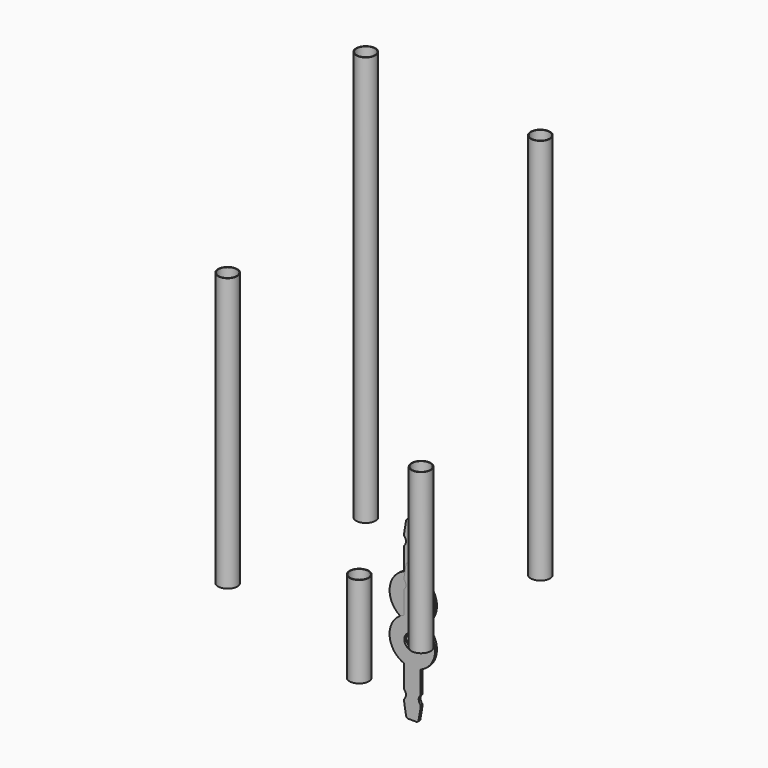
from build123d import *

# Parameters (mm, degrees)
F0_R      = 3.5
F1_DEPTH  = 1
F2_R      = 4.25
F2_R_2    = 4
F3_DEPTH  = 120
F4_R      = 4.25
F4_R_2    = 4
F5_DEPTH  = 180
F6_R      = 4.25
F6_R_2    = 4
F7_DEPTH  = 170
F8_R      = 4.25
F8_R_2    = 4
F9_DEPTH  = 70
F10_R     = 4.25
F10_R_2   = 4
F11_DEPTH = 40
F12_R     = 3.5
F13_DEPTH = 1


with BuildPart() as f1:
    # F0 (on Front) → F1 (new body)
    with BuildSketch(Plane.XZ):
        with BuildLine():
            ThreePointArc((-1.691495, 28.806018), (-2.358822, 28.582301), (-2.756461, 28.001562))
            Line((-2.756461, 28.001562), (-3.583157, 22.901481))
            Line((-3.583157, 22.901481), (-3.583157, 21.667795))
            ThreePointArc((-3.583157, 21.667795), (-2.800422, 19.813258), (-3.600286, 17.966043))
            Line((-3.600286, 17.966043), (-3.600286, 11.83005))
            Line((-3.600286, 11.83005), (3.599391, 11.83005))
            Line((3.599391, 11.83005), (3.599391, 17.969944))
            ThreePointArc((3.599391, 17.969944), (2.802389, 19.803012), (3.601747, 21.635054))
            Line((3.601747, 21.635054), (3.601747, 22.901675))
            Line((3.601747, 22.901675), (2.729514, 27.967552))
            ThreePointArc((2.729514, 27.967552), (2.399436, 28.567432), (1.757654, 28.806018))
            Line((1.757654, 28.806018), (-1.691495, 28.806018))
        make_face()
        with BuildLine():
            Line((3.599391, 11.83005), (-3.600286, 11.83005))
            Line((-3.600286, 11.83005), (-3.600286, 7.97005))
            ThreePointArc((-3.600286, 7.97005), (-0.000448, 8.640464), (3.599391, 7.97005))
            Line((3.599391, 7.97005), (3.599391, 11.83005))
        make_face()
        with BuildLine():
            ThreePointArc((3.599391, 7.97005), (-0.000448, 8.640464), (-3.600286, 7.97005))
            Line((-3.600286, 7.97005), (3.599391, 7.97005))
        make_face()
        with BuildLine():
            Line((3.599391, 7.97005), (-3.600286, 7.97005))
            ThreePointArc((-3.600286, 7.97005), (-5.657373, -9.605698), (9.999552, -1.359536))
            ThreePointArc((9.999552, -1.359536), (8.245715, 4.29739), (3.599391, 7.97005))
        make_face()
        with Locations((-0.000448, -1.359536)):
            Circle(F0_R, mode=Mode.SUBTRACT)
    extrude(amount=F1_DEPTH)


with BuildPart() as f3:
    # F2 (on Top) → F3 (new body)
    with BuildSketch(Plane.XY):
        with Locations((-55.070568, -33.56855)):
            Circle(F2_R)
        with Locations((-55.070568, -33.56855)):
            Circle(F2_R_2, mode=Mode.SUBTRACT)
    extrude(amount=F3_DEPTH)


with BuildPart() as f5:
    # F4 (on Top) → F5 (new body)
    with BuildSketch(Plane.XY):
        with Locations((-48.538309, 34.112904)):
            Circle(F4_R)
        with Locations((-48.538309, 34.112904)):
            Circle(F4_R_2, mode=Mode.SUBTRACT)
    extrude(amount=F5_DEPTH)


with BuildPart() as f7:
    # F6 (on Top) → F7 (new body)
    with BuildSketch(Plane.XY):
        with Locations((24.949595, 38.10484)):
            Circle(F6_R)
        with Locations((24.949595, 38.10484)):
            Circle(F6_R_2, mode=Mode.SUBTRACT)
    extrude(amount=F7_DEPTH)


with BuildPart() as f9:
    # F8 (on Top) → F9 (new body)
    with BuildSketch(Plane.XY):
        with Locations((26.713643, -29.582191)):
            Circle(F8_R)
        with Locations((26.713643, -29.582191)):
            Circle(F8_R_2, mode=Mode.SUBTRACT)
    extrude(amount=F9_DEPTH)


with BuildPart() as f11:
    # F10 (on Top) → F11 (new body)
    with BuildSketch(Plane.XY):
        with Locations((24.170965, -60.403489)):
            Circle(F10_R)
        with Locations((24.170965, -60.403489)):
            Circle(F10_R_2, mode=Mode.SUBTRACT)
    extrude(amount=F11_DEPTH)


with BuildPart() as f13:
    # F12 (on Front) → F13 (new body)
    with BuildSketch(Plane.XZ):
        with BuildLine():
            ThreePointArc((-1.696306, 11.890147), (-2.363633, 11.66643), (-2.761272, 11.085691))
            Line((-2.761272, 11.085691), (-3.587968, 5.98561))
            Line((-3.587968, 5.98561), (-3.587968, 4.751925))
            ThreePointArc((-3.587968, 4.751925), (-2.805233, 2.897387), (-3.605097, 1.050173))
            Line((-3.605097, 1.050173), (-3.605097, -5.085821))
            Line((-3.605097, -5.085821), (3.59458, -5.085821))
            Line((3.59458, -5.085821), (3.59458, 1.054073))
            ThreePointArc((3.59458, 1.054073), (2.797578, 2.887141), (3.596937, 4.719183))
            Line((3.596937, 4.719183), (3.596937, 5.985804))
            Line((3.596937, 5.985804), (2.724703, 11.051681))
            ThreePointArc((2.724703, 11.051681), (2.394625, 11.651561), (1.752843, 11.890147))
            Line((1.752843, 11.890147), (-1.696306, 11.890147))
        make_face()
        with BuildLine():
            Line((3.59458, -5.085821), (-3.605097, -5.085821))
            Line((-3.605097, -5.085821), (-3.605097, -8.945821))
            ThreePointArc((-3.605097, -8.945821), (-0.005258, -8.275406), (3.59458, -8.945821))
            Line((3.59458, -8.945821), (3.59458, -5.085821))
        make_face()
        with BuildLine():
            Line((3.59458, -8.945821), (-3.605097, -8.945821))
            ThreePointArc((-3.605097, -8.945821), (-10.005258, -18.275406), (-3.605097, -27.604992))
            Line((-3.605097, -27.604992), (3.59458, -27.604992))
            ThreePointArc((3.59458, -27.604992), (8.240904, -23.932332), (9.994742, -18.275406))
            ThreePointArc((9.994742, -18.275406), (8.240904, -12.618481), (3.59458, -8.945821))
        make_face()
        with Locations((-0.005258, -18.275406)):
            Circle(F12_R, mode=Mode.SUBTRACT)
        with BuildLine():
            ThreePointArc((3.59458, -27.604992), (-0.005258, -28.275406), (-3.605097, -27.604992))
            Line((-3.605097, -27.604992), (-3.605097, -31.464992))
            Line((-3.605097, -31.464992), (3.59458, -31.464992))
            Line((3.59458, -31.464992), (3.59458, -27.604992))
        make_face()
        with BuildLine():
            Line((3.59458, -31.464992), (-3.605097, -31.464992))
            Line((-3.605097, -31.464992), (-3.605097, -37.600985))
            ThreePointArc((-3.605097, -37.600985), (-2.805233, -39.4482), (-3.587968, -41.302737))
            Line((-3.587968, -41.302737), (-3.587968, -42.536423))
            Line((-3.587968, -42.536423), (-2.761272, -47.636504))
            ThreePointArc((-2.761272, -47.636504), (-2.363633, -48.217243), (-1.696306, -48.44096))
            Line((-1.696306, -48.44096), (1.752843, -48.44096))
            ThreePointArc((1.752843, -48.44096), (2.394625, -48.202374), (2.724703, -47.602494))
            Line((2.724703, -47.602494), (3.596937, -42.536617))
            Line((3.596937, -42.536617), (3.596937, -41.269996))
            ThreePointArc((3.596937, -41.269996), (2.797578, -39.437954), (3.59458, -37.604886))
            Line((3.59458, -37.604886), (3.59458, -31.464992))
        make_face()
        with BuildLine():
            ThreePointArc((3.59458, -8.945821), (-0.005258, -8.275406), (-3.605097, -8.945821))
            Line((-3.605097, -8.945821), (3.59458, -8.945821))
        make_face()
        with BuildLine():
            Line((3.59458, -27.604992), (-3.605097, -27.604992))
            ThreePointArc((-3.605097, -27.604992), (-0.005258, -28.275406), (3.59458, -27.604992))
        make_face()
    extrude(amount=F13_DEPTH)


solid = Compound([f1.part, f3.part, f5.part, f7.part, f9.part, f11.part, f13.part])
